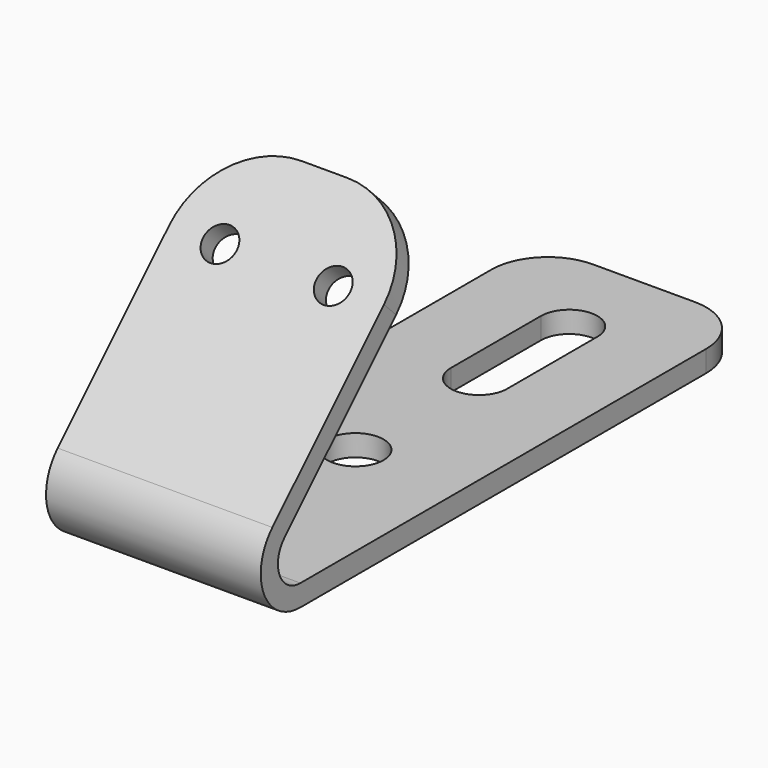
from build123d import *

# Parameters (mm, degrees)
F1_DEPTH = 9.525
F2_R     = 2.5
F3_DEPTH = 1.901
F4_R     = 1.5
F5_DEPTH = 1.9
F6_R     = 7.5
F7_R     = 5


with BuildPart() as f1:
    # F0 (on Right) → F1 (new body, symmetric)
    with BuildSketch(Plane.YZ):
        with BuildLine():
            ThreePointArc((-3.1112698372, 7.5112698372), (-4.065069943, 2.7161928976), (0, 0))
            Line((0, 0), (50, 0))
            Line((50, 0), (50, 1.9))
            Line((50, 1.9), (0, 1.9))
            ThreePointArc((0, 1.9), (-2.3096988313, 3.4432914191), (-1.767766953, 6.167766953))
            Line((-1.767766953, 6.167766953), (15.9099025767, 23.8454364826))
            Line((15.9099025767, 23.8454364826), (14.5663996924, 25.1889393669))
            Line((14.5663996924, 25.1889393669), (-3.1112698372, 7.5112698372))
        make_face()
    extrude(amount=F1_DEPTH, both=True)

    # F2 (on face) → F3 (cut, through all)
    with BuildSketch(Plane.XY.offset(1.9)):
        with Locations((0, 18)):
            Circle(F2_R)
        with BuildLine():
            Line((2.5, 31.7094863951), (2.5, 41.7094863951))
            ThreePointArc((2.5, 41.7094863951), (0, 44.2094863951), (-2.5, 41.7094863951))
            Line((-2.5, 41.7094863951), (-2.5, 31.7094863951))
            ThreePointArc((-2.5, 31.7094863951), (0, 29.2094863951), (2.5, 31.7094863951))
        make_face()
    extrude(amount=-F3_DEPTH, mode=Mode.SUBTRACT)

    # F4 (on face) → F5 (cut)
    with BuildSketch(Plane(origin=(0, -5.3112698372, 5.3112698372), x_dir=(1, 0, 0), z_dir=(0, -0.7071067812, 0.7071067812))):
        with Locations((-5.025, 20.6112698372)):
            Circle(F4_R)
        with Locations((5.025, 20.6112698372)):
            Circle(F4_R)
    extrude(amount=-F5_DEPTH, mode=Mode.SUBTRACT)

    # F6
    f6_edges = [f1.edges().sort_by_distance(p)[0] for p in [
        (9.525, 15.238151, 24.517188),
        (-9.525, 15.238151, 24.517188),
    ]]
    fillet(f6_edges, radius=F6_R)

    # F7
    f7_edges = [f1.edges().sort_by_distance(p)[0] for p in [
        (-9.525, 50, 0.95),
        (9.525, 50, 0.95),
    ]]
    fillet(f7_edges, radius=F7_R)


solid = f1.part
